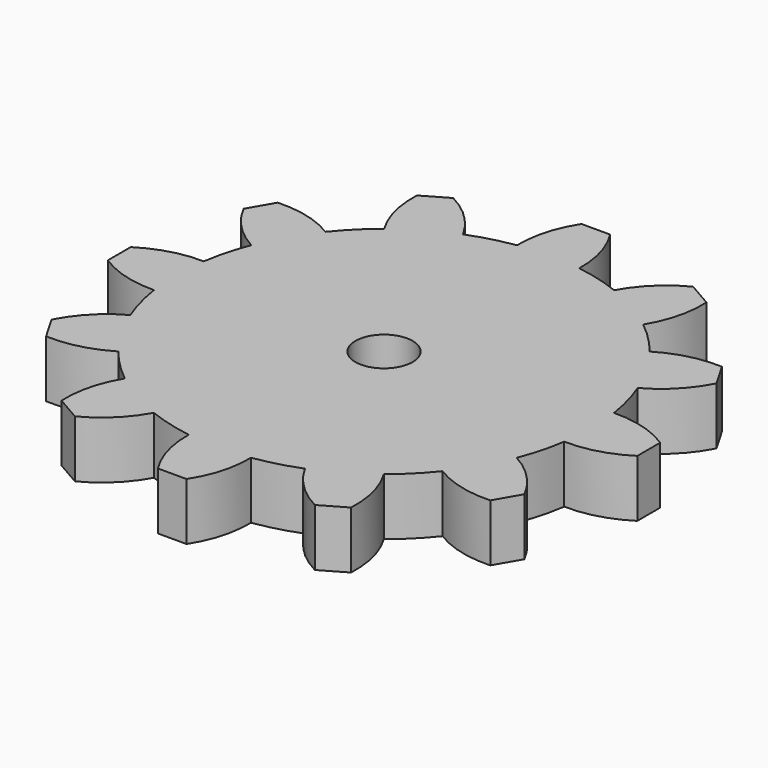
from build123d import *

# Parameters (mm, degrees)
F1_DEPTH = 2
F2_R     = 1
F3_DEPTH = 2.001


with BuildPart() as f1:
    # F0 (on Top) → F1 (new body)
    with BuildSketch(Plane.XY):
        with BuildLine():
            ThreePointArc((7.167858, -1.088259), (7.229435, -0.545677), (7.25, 0))
            ThreePointArc((7.25, 0), (7.229435, 0.545677), (7.167858, 1.088259))
            ThreePointArc((7.167858, 1.088259), (7.002962, 1.876438), (6.751677, 2.641469))
            ThreePointArc((6.751677, 2.641469), (6.278684, 3.625), (5.663418, 4.526389))
            ThreePointArc((5.663418, 4.526389), (5.126524, 5.126524), (4.526389, 5.663418))
            ThreePointArc((4.526389, 5.663418), (3.625, 6.278684), (2.641469, 6.751677))
            ThreePointArc((2.641469, 6.751677), (1.876438, 7.002962), (1.088259, 7.167858))
            ThreePointArc((1.088259, 7.167858), (0, 7.25), (-1.088259, 7.167858))
            ThreePointArc((-1.088259, 7.167858), (-1.876438, 7.002962), (-2.641469, 6.751677))
            ThreePointArc((-2.641469, 6.751677), (-3.625, 6.278684), (-4.526389, 5.663418))
            ThreePointArc((-4.526389, 5.663418), (-5.126524, 5.126524), (-5.663418, 4.526389))
            ThreePointArc((-5.663418, 4.526389), (-6.278684, 3.625), (-6.751677, 2.641469))
            ThreePointArc((-6.751677, 2.641469), (-7.002962, 1.876438), (-7.167858, 1.088259))
            ThreePointArc((-7.167858, 1.088259), (-7.25, 0), (-7.167858, -1.088259))
            ThreePointArc((-7.167858, -1.088259), (-7.002962, -1.876438), (-6.751677, -2.641469))
            ThreePointArc((-6.751677, -2.641469), (-6.278684, -3.625), (-5.663418, -4.526389))
            ThreePointArc((-5.663418, -4.526389), (-5.126524, -5.126524), (-4.526389, -5.663418))
            ThreePointArc((-4.526389, -5.663418), (-3.625, -6.278684), (-2.641469, -6.751677))
            ThreePointArc((-2.641469, -6.751677), (-1.876438, -7.002962), (-1.088259, -7.167858))
            ThreePointArc((-1.088259, -7.167858), (0, -7.25), (1.088259, -7.167858))
            ThreePointArc((1.088259, -7.167858), (1.876438, -7.002962), (2.641469, -6.751677))
            ThreePointArc((2.641469, -6.751677), (3.625, -6.278684), (4.526389, -5.663418))
            ThreePointArc((4.526389, -5.663418), (5.126524, -5.126524), (5.663418, -4.526389))
            ThreePointArc((5.663418, -4.526389), (6.278684, -3.625), (6.751677, -2.641469))
            ThreePointArc((6.751677, -2.641469), (7.002962, -1.876438), (7.167858, -1.088259))
        make_face()
        with BuildLine():
            ThreePointArc((7.167858, 1.088259), (7.229435, 0.545677), (7.25, 0))
            ThreePointArc((7.25, 0), (7.229435, -0.545677), (7.167858, -1.088259))
            ThreePointArc((7.167858, -1.088259), (8.253024, -0.950203), (9.25, -0.5))
            Line((9.25, -0.5), (9.25, 0))
            Line((9.25, 0), (9.25, 0.5))
            ThreePointArc((9.25, 0.5), (8.253024, 0.950203), (7.167858, 1.088259))
        make_face()
        with BuildLine():
            ThreePointArc((5.663418, 4.526389), (6.278684, 3.625), (6.751677, 2.641469))
            ThreePointArc((6.751677, 2.641469), (7.62243, 3.303612), (8.260735, 4.191987))
            Line((8.260735, 4.191987), (8.010735, 4.625))
            Line((8.010735, 4.625), (7.760735, 5.058013))
            ThreePointArc((7.760735, 5.058013), (6.672227, 4.949412), (5.663418, 4.526389))
        make_face()
        with BuildLine():
            ThreePointArc((8.260735, -4.191987), (7.62243, -3.303612), (6.751677, -2.641469))
            ThreePointArc((6.751677, -2.641469), (6.278684, -3.625), (5.663418, -4.526389))
            ThreePointArc((5.663418, -4.526389), (6.672227, -4.949412), (7.760735, -5.058013))
            Line((7.760735, -5.058013), (8.010735, -4.625))
            Line((8.010735, -4.625), (8.260735, -4.191987))
        make_face()
        with BuildLine():
            ThreePointArc((2.641469, 6.751677), (3.625, 6.278684), (4.526389, 5.663418))
            ThreePointArc((4.526389, 5.663418), (4.949412, 6.672227), (5.058013, 7.760735))
            Line((5.058013, 7.760735), (4.625, 8.010735))
            Line((4.625, 8.010735), (4.191987, 8.260735))
            ThreePointArc((4.191987, 8.260735), (3.303612, 7.62243), (2.641469, 6.751677))
        make_face()
        with BuildLine():
            ThreePointArc((5.058013, -7.760735), (4.949412, -6.672227), (4.526389, -5.663418))
            ThreePointArc((4.526389, -5.663418), (3.625, -6.278684), (2.641469, -6.751677))
            ThreePointArc((2.641469, -6.751677), (3.303612, -7.62243), (4.191987, -8.260735))
            Line((4.191987, -8.260735), (4.625, -8.010735))
            Line((4.625, -8.010735), (5.058013, -7.760735))
        make_face()
        with BuildLine():
            ThreePointArc((-1.088259, 7.167858), (0, 7.25), (1.088259, 7.167858))
            ThreePointArc((1.088259, 7.167858), (0.950203, 8.253024), (0.5, 9.25))
            Line((0.5, 9.25), (0, 9.25))
            Line((0, 9.25), (-0.5, 9.25))
            ThreePointArc((-0.5, 9.25), (-0.950203, 8.253024), (-1.088259, 7.167858))
        make_face()
        with BuildLine():
            ThreePointArc((0.5, -9.25), (0.950203, -8.253024), (1.088259, -7.167858))
            ThreePointArc((1.088259, -7.167858), (0, -7.25), (-1.088259, -7.167858))
            ThreePointArc((-1.088259, -7.167858), (-0.950203, -8.253024), (-0.5, -9.25))
            Line((-0.5, -9.25), (0, -9.25))
            Line((0, -9.25), (0.5, -9.25))
        make_face()
        with BuildLine():
            ThreePointArc((-4.526389, 5.663418), (-3.625, 6.278684), (-2.641469, 6.751677))
            ThreePointArc((-2.641469, 6.751677), (-3.303612, 7.62243), (-4.191987, 8.260735))
            Line((-4.191987, 8.260735), (-4.625, 8.010735))
            Line((-4.625, 8.010735), (-5.058013, 7.760735))
            ThreePointArc((-5.058013, 7.760735), (-4.949412, 6.672227), (-4.526389, 5.663418))
        make_face()
        with BuildLine():
            ThreePointArc((-4.191987, -8.260735), (-3.303612, -7.62243), (-2.641469, -6.751677))
            ThreePointArc((-2.641469, -6.751677), (-3.625, -6.278684), (-4.526389, -5.663418))
            ThreePointArc((-4.526389, -5.663418), (-4.949412, -6.672227), (-5.058013, -7.760735))
            Line((-5.058013, -7.760735), (-4.625, -8.010735))
            Line((-4.625, -8.010735), (-4.191987, -8.260735))
        make_face()
        with BuildLine():
            ThreePointArc((-6.751677, 2.641469), (-6.278684, 3.625), (-5.663418, 4.526389))
            ThreePointArc((-5.663418, 4.526389), (-6.672227, 4.949412), (-7.760735, 5.058013))
            Line((-7.760735, 5.058013), (-8.010735, 4.625))
            Line((-8.010735, 4.625), (-8.260735, 4.191987))
            ThreePointArc((-8.260735, 4.191987), (-7.62243, 3.303612), (-6.751677, 2.641469))
        make_face()
        with BuildLine():
            ThreePointArc((-7.760735, -5.058013), (-6.672227, -4.949412), (-5.663418, -4.526389))
            ThreePointArc((-5.663418, -4.526389), (-6.278684, -3.625), (-6.751677, -2.641469))
            ThreePointArc((-6.751677, -2.641469), (-7.62243, -3.303612), (-8.260735, -4.191987))
            Line((-8.260735, -4.191987), (-8.010735, -4.625))
            Line((-8.010735, -4.625), (-7.760735, -5.058013))
        make_face()
        with BuildLine():
            ThreePointArc((-7.167858, -1.088259), (-7.25, 0), (-7.167858, 1.088259))
            ThreePointArc((-7.167858, 1.088259), (-8.253024, 0.950203), (-9.25, 0.5))
            Line((-9.25, 0.5), (-9.25, 0))
            Line((-9.25, 0), (-9.25, -0.5))
            ThreePointArc((-9.25, -0.5), (-8.253024, -0.950203), (-7.167858, -1.088259))
        make_face()
    extrude(amount=F1_DEPTH)

    # F2 (on face) → F3 (cut, through all)
    with BuildSketch(Plane.XY.offset(2)):
        Circle(F2_R)
    extrude(amount=-F3_DEPTH, mode=Mode.SUBTRACT)


solid = f1.part
